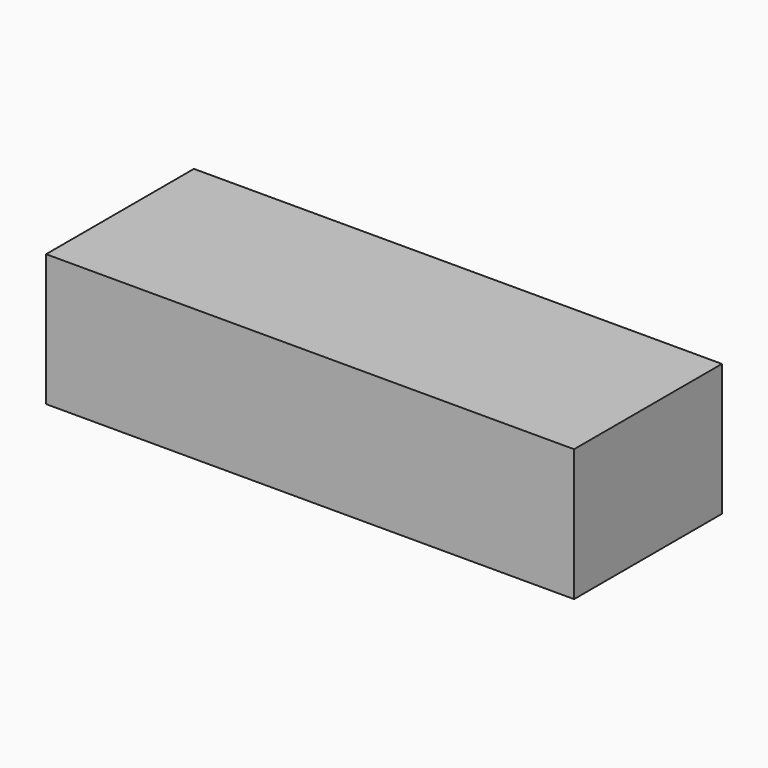
from build123d import *

# Parameters (mm, degrees)
SKETCH_W  = 20
SKETCH_H  = 7
PAD_DEPTH = 5


with BuildPart() as part:
    # Sketch → Pad (new body)
    with BuildSketch(Plane.XY):
        with Locations((10, 3.5)):
            Rectangle(SKETCH_W, SKETCH_H)
    extrude(amount=PAD_DEPTH)


solid = part.part
